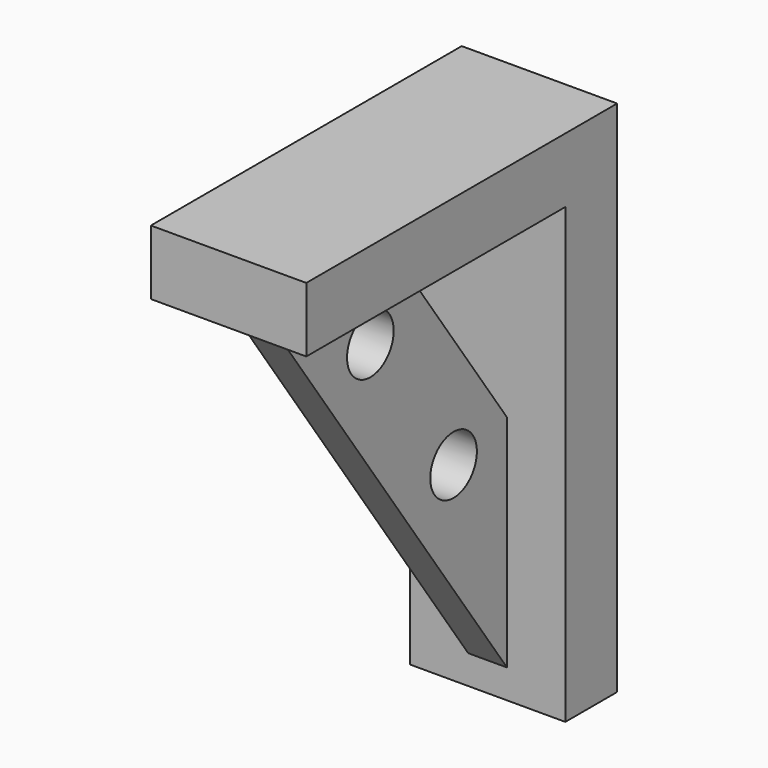
from build123d import *

# Parameters (mm, degrees)
F1_DEPTH = 38.1
F2_DEPTH = 38.1
F0_R     = 14.2875
F3_DEPTH = 9.525


with BuildPart() as f1:
    # F0 (on Right) → F1 (new body, symmetric)
    with BuildSketch(Plane.YZ):
        Polygon((0, -254), (0, 0), (-31.75, 0), (-31.75, -31.75), (-31.75, -131.87347), (-31.75, -239.814619), (-31.75, -254), align=None)
    extrude(amount=F1_DEPTH, both=True)

    # F0 (on Right) → F2 (join, symmetric)
    with BuildSketch(Plane.YZ):
        Polygon((-31.75, -31.75), (-31.75, 0), (-190.5, 0), (-190.5, -31.75), (-177.438415, -31.75), (-101.857208, -31.75), align=None)
    extrude(amount=F2_DEPTH, both=True)

    # F0 (on Right) → F3 (join, symmetric)
    with BuildSketch(Plane.YZ):
        Polygon((-31.75, -239.814619), (-31.75, -131.87347), (-101.857208, -31.75), (-177.438415, -31.75), align=None)
        with Locations((-64.529893, -139.029505)):
            Circle(F0_R, mode=Mode.SUBTRACT)
        with Locations((-115.520839, -66.206888)):
            Circle(F0_R, mode=Mode.SUBTRACT)
    extrude(amount=F3_DEPTH, both=True)


solid = f1.part
